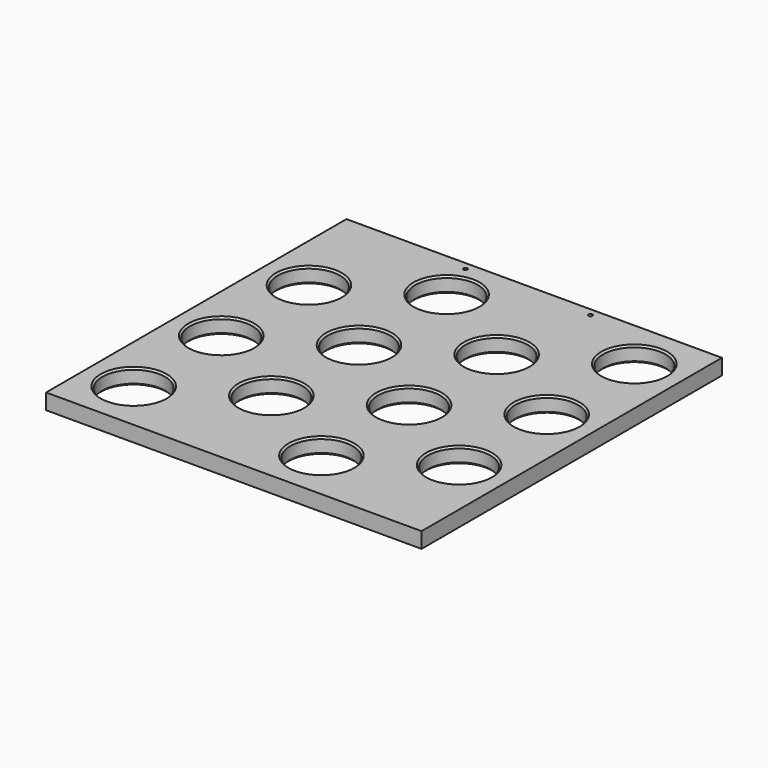
from build123d import *

# Parameters (mm, degrees)
F0_W     = 609.6
F0_H     = 609.6
F0_R     = 50.8
F0_R_2   = 3.175
F1_DEPTH = 25.4
F2_SIZE  = 2.8575


with BuildPart() as f1:
    # F0 (on Top) → F1 (new body)
    with BuildSketch(Plane.XY):
        with Locations((0, -30.747368)):
            Rectangle(F0_W, F0_H)
        with Locations((-228.6, -252.997368)):
            Circle(F0_R, mode=Mode.SUBTRACT)
        with Locations((-228.6, -75.197368)):
            Circle(F0_R, mode=Mode.SUBTRACT)
        with Locations((-76.2, -164.097368)):
            Circle(F0_R, mode=Mode.SUBTRACT)
        with Locations((76.2, -252.997368)):
            Circle(F0_R, mode=Mode.SUBTRACT)
        with Locations((76.2, -75.197368)):
            Circle(F0_R, mode=Mode.SUBTRACT)
        with Locations((228.6, -164.097368)):
            Circle(F0_R, mode=Mode.SUBTRACT)
        with Locations((-228.6, 102.602632)):
            Circle(F0_R, mode=Mode.SUBTRACT)
        with Locations((-76.2, 13.702632)):
            Circle(F0_R, mode=Mode.SUBTRACT)
        with Locations((-76.2, 191.502632)):
            Circle(F0_R, mode=Mode.SUBTRACT)
        with Locations((-101.6, 261.352632)):
            Circle(F0_R_2, mode=Mode.SUBTRACT)
        with Locations((76.2, 102.602632)):
            Circle(F0_R, mode=Mode.SUBTRACT)
        with Locations((228.6, 13.702632)):
            Circle(F0_R, mode=Mode.SUBTRACT)
        with Locations((101.6, 261.352632)):
            Circle(F0_R_2, mode=Mode.SUBTRACT)
        with Locations((228.6, 191.502632)):
            Circle(F0_R, mode=Mode.SUBTRACT)
    extrude(amount=F1_DEPTH)

    # F2
    f2_edges = [f1.edges().sort_by_distance(p)[0] for p in [
        (-25.4, -164.097368, 12.7),
        (-127, -164.097368, 0),
        (-127, -164.097368, 25.4),
        (-25.4, 13.702632, 12.7),
        (-127, 13.702632, 0),
        (-127, 13.702632, 25.4),
        (-177.8, 102.602632, 12.7),
        (-279.4, 102.602632, 0),
        (-279.4, 102.602632, 25.4),
        (-25.4, 191.502632, 12.7),
        (-127, 191.502632, 0),
        (-127, 191.502632, 25.4),
        (127, 102.602632, 12.7),
        (25.4, 102.602632, 0),
        (25.4, 102.602632, 25.4),
        (279.4, 191.502632, 12.7),
        (177.8, 191.502632, 0),
        (177.8, 191.502632, 25.4),
        (279.4, 13.702632, 12.7),
        (177.8, 13.702632, 0),
        (177.8, 13.702632, 25.4),
        (127, -75.197368, 12.7),
        (25.4, -75.197368, 0),
        (25.4, -75.197368, 25.4),
        (-177.8, -75.197368, 12.7),
        (-279.4, -75.197368, 0),
        (-279.4, -75.197368, 25.4),
        (-177.8, -252.997368, 12.7),
        (-279.4, -252.997368, 0),
        (-279.4, -252.997368, 25.4),
        (127, -252.997368, 12.7),
        (25.4, -252.997368, 0),
        (25.4, -252.997368, 25.4),
        (279.4, -164.097368, 12.7),
        (177.8, -164.097368, 0),
        (177.8, -164.097368, 25.4),
    ]]
    chamfer(f2_edges, length=F2_SIZE)


solid = f1.part
